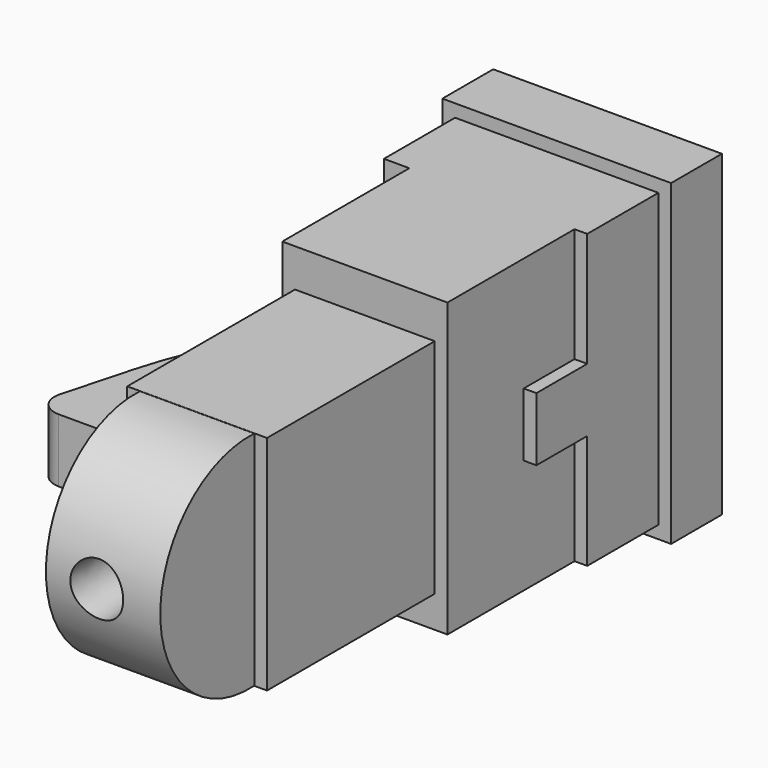
from build123d import *

# Parameters (mm, degrees)
CONE002_ROLL_ANGLE   = 90
BOX005_W             = 26
BOX005_H             = 50
BOX005_DEPTH         = 40
POCKET_DEPTH         = 40.001
BOX001_W             = 32
BOX001_H             = 17
BOX001_DEPTH         = 46
BOX002_W             = 26
BOX002_H             = 12
BOX002_DEPTH         = 10
BOX003_W             = 26
BOX003_H             = 26
BOX003_DEPTH         = 46
BOX004_W             = 22
BOX004_H             = 36
BOX004_DEPTH         = 35
CYLINDER_R           = 17.5
CYLINDER_DEPTH       = 18
CYLINDER_PITCH_ANGLE = 90
SKETCH001_R          = 1.5
PAD_DEPTH            = 4.5
PAD_DEPTH_BACK       = 5.5
BOX_W                = 36
BOX_H                = 10
BOX_DEPTH            = 50


with BuildPart() as obj1:
    # Cone002 → Cone002 (revolve)
    with BuildSketch(Plane.XZ):
        Polygon((0, 0), (3.9, 0), (4.2, 11), (0, 11), align=None)
    revolve(axis=Axis((0, 0, 0), (0, 0, 1)))


with BuildPart() as obj1_1:
    # Cone002 roll: moved
    add(obj1.part.rotate(Axis((0, 0, 0), (1, 0, 0)), CONE002_ROLL_ANGLE))


with BuildPart() as obj1_2:
    # Cone002 placement: moved
    add(obj1_1.part.moved(Location((32, 35, 35.5))))


with BuildPart() as pocket:
    # Box005 → Box005 (new body)
    with BuildSketch(Plane(origin=(19, 81, 16), x_dir=(1, 0, 0), z_dir=(0, 0, 1))):
        with Locations((13, 25)):
            Rectangle(BOX005_W, BOX005_H)
    extrude(amount=BOX005_DEPTH)

    # Sketch → Pocket (cut, through all)
    with BuildSketch(Plane(origin=(19, 81, 16), x_dir=(1, 0, 0), z_dir=(0, 0, -1))):
        Polygon((0, 0), (0, -1), (2, -1), (4, 0), align=None)
    extrude(amount=-POCKET_DEPTH, mode=Mode.SUBTRACT)


with BuildPart() as obj2:
    # Box001 → Box001 (new body)
    with BuildSketch(Plane(origin=(16, 102, 13), x_dir=(1, 0, 0), z_dir=(0, 0, 1))):
        with Locations((16, 8.5)):
            Rectangle(BOX001_W, BOX001_H)
    extrude(amount=BOX001_DEPTH)


with BuildPart() as obj3:
    # Box002 → Box002 (new body)
    with BuildSketch(Plane(origin=(22, 92, 31), x_dir=(1, 0, 0), z_dir=(0, 0, 1))):
        with Locations((13, 6)):
            Rectangle(BOX002_W, BOX002_H)
    extrude(amount=BOX002_DEPTH)


with BuildPart() as obj4:
    # Box003 → Box003 (new body)
    with BuildSketch(Plane(origin=(20, 77, 13), x_dir=(1, 0, 0), z_dir=(0, 0, 1))):
        with Locations((13, 13)):
            Rectangle(BOX003_W, BOX003_H)
    extrude(amount=BOX003_DEPTH)


with BuildPart() as obj5:
    # Box004 → Box004 (new body)
    with BuildSketch(Plane(origin=(22, 44, 18), x_dir=(1, 0, 0), z_dir=(0, 0, 1))):
        with Locations((11, 18)):
            Rectangle(BOX004_W, BOX004_H)
    extrude(amount=BOX004_DEPTH)


with BuildPart() as obj6:
    # Cylinder → Cylinder (new body)
    with BuildSketch(Plane.XY):
        Circle(CYLINDER_R)
    extrude(amount=CYLINDER_DEPTH)


with BuildPart() as obj6_1:
    # Cylinder pitch: moved
    add(obj6.part.rotate(Axis((0, 0, 0), (0, 1, 0)), CYLINDER_PITCH_ANGLE))


with BuildPart() as obj6_2:
    # Cylinder placement: moved
    add(obj6_1.part.moved(Location((24, 43, 35.5))))


with BuildPart() as obj7:
    # Sketch001 → Pad (new body, two sides)
    with BuildSketch(Plane(origin=(22, 44, 36), x_dir=(1, 0, 0), z_dir=(0, 0, 1))) as pad_sk:
        with BuildLine():
            Line((1.5, 7.670836), (-16.920451, 7.670836))
            ThreePointArc((-20.14616, 11.888508), (-19.57535, 8.982708), (-16.920451, 7.670836))
            Line((-20.14616, 11.888508), (-17.171201, 22.851854))
            ThreePointArc((-12.625578, 34.600006), (-15.204729, 28.844459), (-17.171201, 22.851854))
            Line((-12.625578, 34.600006), (-6.240143, 47.065773))
            ThreePointArc((-6.240143, 47.065773), (-5.840064, 48.144871), (-5.704179, 49.287696))
            Line((-5.704179, 49.287696), (-5.704179, 58.874008))
            Line((-5.704179, 58.874008), (1.5, 58.874008))
            Line((1.5, 58.874008), (1.5, 7.670836))
        make_face()
        with Locations((-11.5, 17.644535)):
            Circle(SKETCH001_R, mode=Mode.SUBTRACT)
    extrude(amount=PAD_DEPTH)
    extrude(pad_sk.sketch, amount=-PAD_DEPTH_BACK)


with BuildPart() as kopf:
    # Box → Box (new body)
    with BuildSketch(Plane(origin=(14, 116, 11), x_dir=(1, 0, 0), z_dir=(0, 0, 1))):
        with Locations((18, 5)):
            Rectangle(BOX_W, BOX_H)
    extrude(amount=BOX_DEPTH)

    # Fusion: union obj2, obj3, obj4, obj5, obj6, obj7
    add(obj2.part)
    add(obj3.part)
    add(obj4.part)
    add(obj5.part)
    add(obj6_2.part)
    add(obj7.part)

    # Cut: cut Pocket
    add(pocket.part, mode=Mode.SUBTRACT)

    # Cut003: cut obj1
    add(obj1_2.part, mode=Mode.SUBTRACT)


solid = kopf.part
